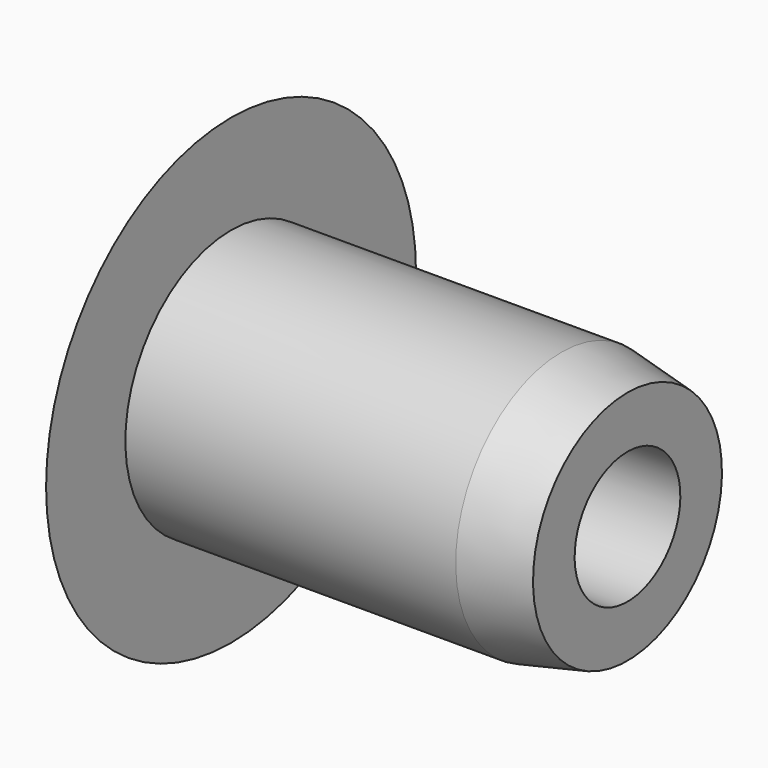
from build123d import *


with BuildPart() as f1:
    # F0 (on Front) → F1 (revolve)
    with BuildSketch(Plane.XZ):
        with BuildLine():
            Line((1, 2), (1, 3.5))
            ThreePointArc((1, 3.5), (0.254904, 1.820027), (0, 0))
            Line((0, 0), (1, 0))
            Line((1, 0), (1, 1))
            Line((1, 1), (7, 1))
            Line((7, 1), (7, 1.787443))
            Line((7, 1.787443), (6, 2))
            Line((6, 2), (1, 2))
        make_face()
    revolve(axis=Axis((-41.069485, 0, 0), (-1, 0, 0)))


solid = f1.part
